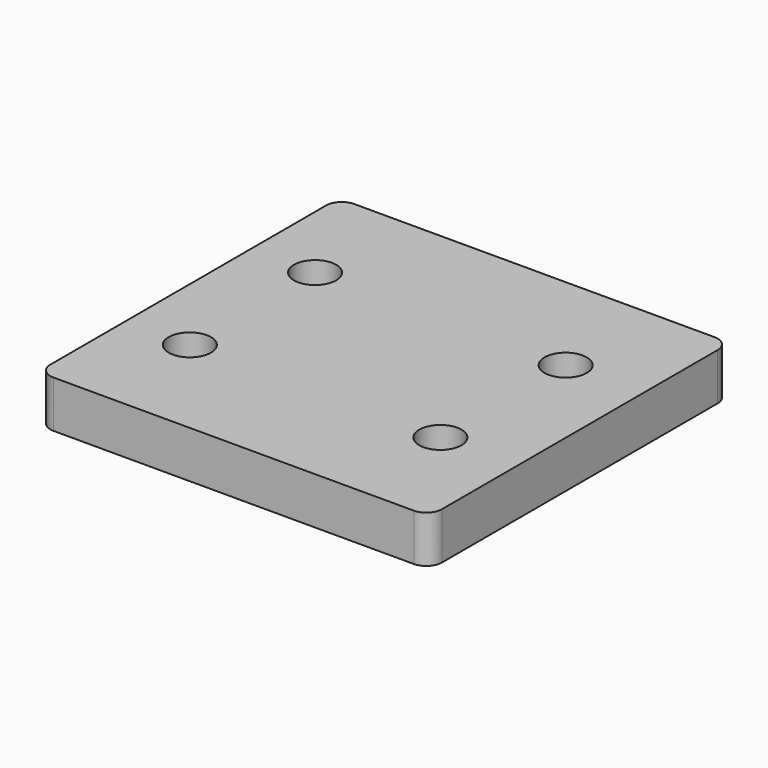
from build123d import *

# Parameters (mm, degrees)
SKETCH_W  = 25
SKETCH_H  = 24
SKETCH_R  = 1.35
PAD_DEPTH = 3
FILLET_R  = 1


with BuildPart() as part:
    # Sketch → Pad (new body)
    with BuildSketch(Plane.XY):
        with Locations((12.5, 12)):
            Rectangle(SKETCH_W, SKETCH_H)
        with Locations((4.1, 17)):
            Circle(SKETCH_R, mode=Mode.SUBTRACT)
        with Locations((20.1, 17)):
            Circle(SKETCH_R, mode=Mode.SUBTRACT)
        with Locations((4.1, 7)):
            Circle(SKETCH_R, mode=Mode.SUBTRACT)
        with Locations((20.1, 7)):
            Circle(SKETCH_R, mode=Mode.SUBTRACT)
    extrude(amount=PAD_DEPTH)

    # Fillet
    fillet_edges = [part.edges().sort_by_distance(p)[0] for p in [
        (0, 0, 1.5),
        (25, 0, 1.5),
        (25, 24, 1.5),
        (0, 24, 1.5),
    ]]
    fillet(fillet_edges, radius=FILLET_R)


solid = part.part
